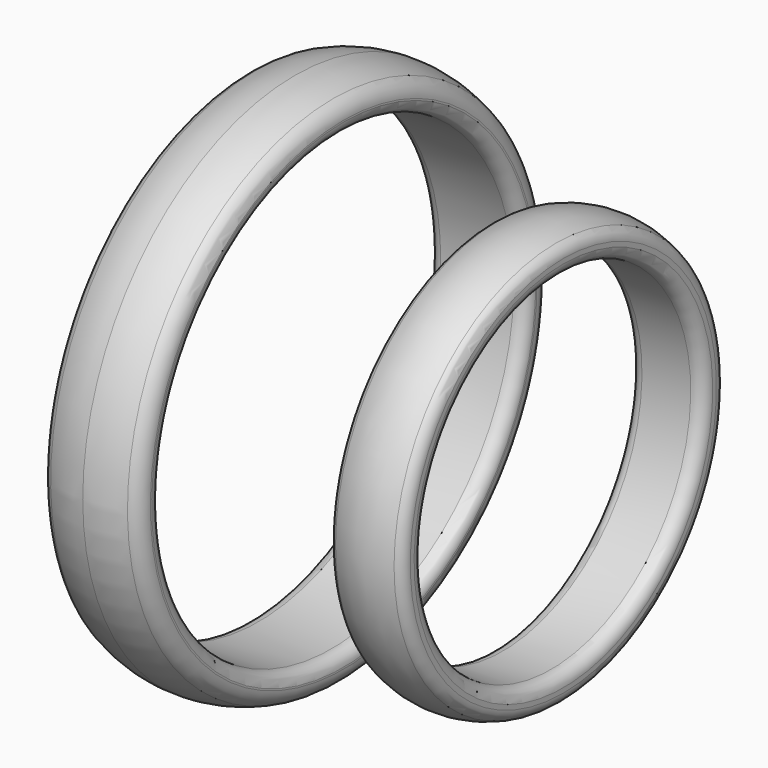
from build123d import *


with BuildPart() as f1:
    # F0 (on Front) → F1 (revolve)
    with BuildSketch(Plane.XZ):
        with BuildLine():
            ThreePointArc((-2, 9.85), (-1.8535533906, 9.4964466094), (-1.5, 9.35))
            Line((-1.5, 9.35), (0, 9.35))
            Line((0, 9.35), (0, 10.8858983849))
            ThreePointArc((0, 10.8858983849), (-0.8043063224, 10.8042004839), (-1.5757575758, 10.5624440547))
            ThreePointArc((-1.5757575758, 10.5624440547), (-1.884392977, 10.3043858803), (-2, 9.9190485625))
            Line((-2, 9.9190485625), (-2, 9.85))
        make_face()
        with BuildLine():
            Line((0, 10.8858983849), (0, 9.35))
            Line((0, 9.35), (1.5, 9.35))
            ThreePointArc((1.5, 9.35), (1.8535533906, 9.4964466094), (2, 9.85))
            Line((2, 9.85), (2, 9.9190485625))
            ThreePointArc((2, 9.9190485625), (1.884392977, 10.3043858803), (1.5757575758, 10.5624440547))
            ThreePointArc((1.5757575758, 10.5624440547), (0.8043063224, 10.8042004839), (0, 10.8858983849))
        make_face()
    revolve(axis=Axis((0.1162891276, 0, 0), (1, 0, 0)))


with BuildPart() as f1b:
    # F0 (on Front) → F1, piece 2 (revolve)
    with BuildSketch(Plane.XZ):
        with BuildLine():
            ThreePointArc((8.0158127025, 7.66), (8.1622593119, 7.3064466094), (8.5158127025, 7.16))
            Line((8.5158127025, 7.16), (10.5158127025, 7.16))
            ThreePointArc((10.5158127025, 7.16), (10.8693660931, 7.3064466094), (11.0158127025, 7.66))
            Line((11.0158127025, 7.66), (11.0158127025, 7.8532116361))
            ThreePointArc((11.0158127025, 7.8532116361), (10.9341427157, 8.1270729149), (10.7158127025, 8.3114692056))
            ThreePointArc((10.7158127025, 8.3114692056), (9.5158127025, 8.5619237886), (8.3158127025, 8.3114692056))
            ThreePointArc((8.3158127025, 8.3114692056), (8.0974826892, 8.1270729149), (8.0158127025, 7.8532116361))
            Line((8.0158127025, 7.8532116361), (8.0158127025, 7.66))
        make_face()
    revolve(axis=Axis((0.1162891276, 0, 0), (1, 0, 0)))


solid = Compound([f1.part, f1b.part])
